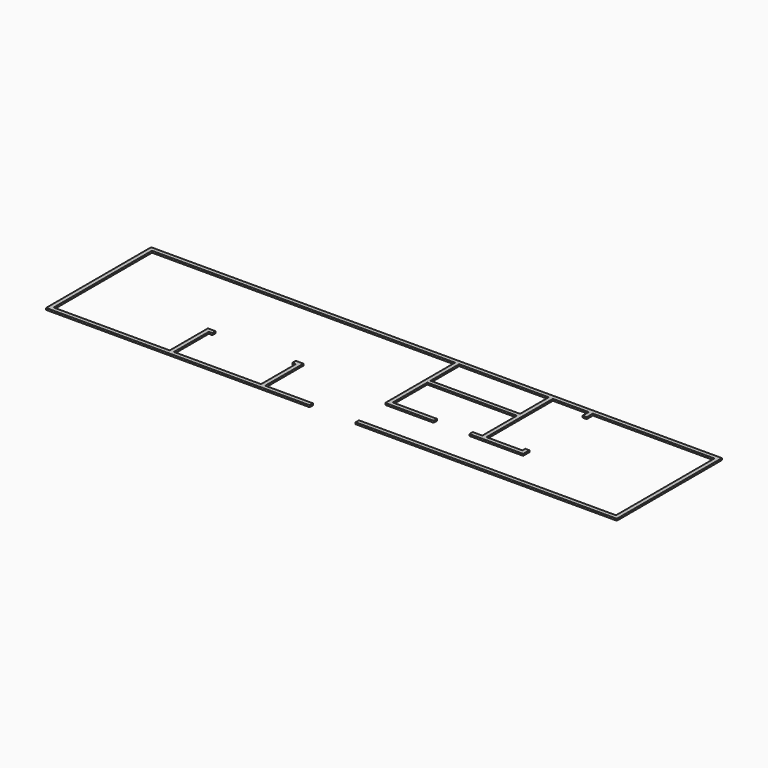
from build123d import *

# Parameters (mm, degrees)
F0_W     = 1574.8
F0_H     = 88.9
F0_W_2   = 1905
F0_H_2   = 762
F0_W_3   = 76.2
F1_DEPTH = 38.1


with BuildPart() as f1:
    # F0 (on Top) → F1 (new body)
    with BuildSketch(Plane.XY):
        Polygon((-6070.6, 1397), (-6070.6, -1397), (-463.55, -1397), (-463.55, -1308.1), (-1479.55, -1308.1), (-1568.45, -1308.1), (-3422.65, -1308.1), (-3511.55, -1308.1), (-5981.7, -1308.1), (-5981.7, 1308.1), (-4997.45, 1308.1), (-4997.45, 1397), align=None)
        with Locations((-4210.05, 1352.55)):
            Rectangle(F0_W, F0_H)
        Polygon((-1568.45, -1308.1), (-1479.55, -1308.1), (-1479.55, -292.1), (-1568.45, -292.1), (-1568.45, -381), align=None)
        Polygon((6070.6, 1397), (-3422.65, 1397), (-3422.65, 1308.1), (463.55, 1308.1), (463.55, -545.750316), (1492.25, -545.750316), (1492.25, -456.850316), (552.45, -456.850316), (552.45, 461.180449), (2457.45, 461.180449), (2457.45, -457.2), (2254.25, -457.2), (2254.25, -546.1), (2457.45, -546.1), (2546.35, -546.1), (3308.35, -546.1), (3397.25, -546.1), (3397.25, -381), (3308.35, -381), (3308.35, -457.2), (2546.35, -457.2), (2546.35, 1308.1), (3308.35, 1308.1), (3308.35, 1143), (3397.25, 1143), (3397.25, 1308.1), (5981.7, 1308.1), (5981.7, -1308.1), (514.35, -1308.1), (514.35, -1397), (6070.6, -1397), align=None)
        with Locations((1504.95, 927.1)):
            Rectangle(F0_W_2, F0_H_2, mode=Mode.SUBTRACT)
        Polygon((-3511.55, -1308.1), (-3422.65, -1308.1), (-3422.65, -381), (-3422.65, -292.1), (-3511.55, -292.1), align=None)
        with Locations((-1606.55, -336.55)):
            Rectangle(F0_W_3, F0_H)
        with Locations((-3384.55, -336.55)):
            Rectangle(F0_W_3, F0_H)
    extrude(amount=F1_DEPTH)


solid = f1.part
